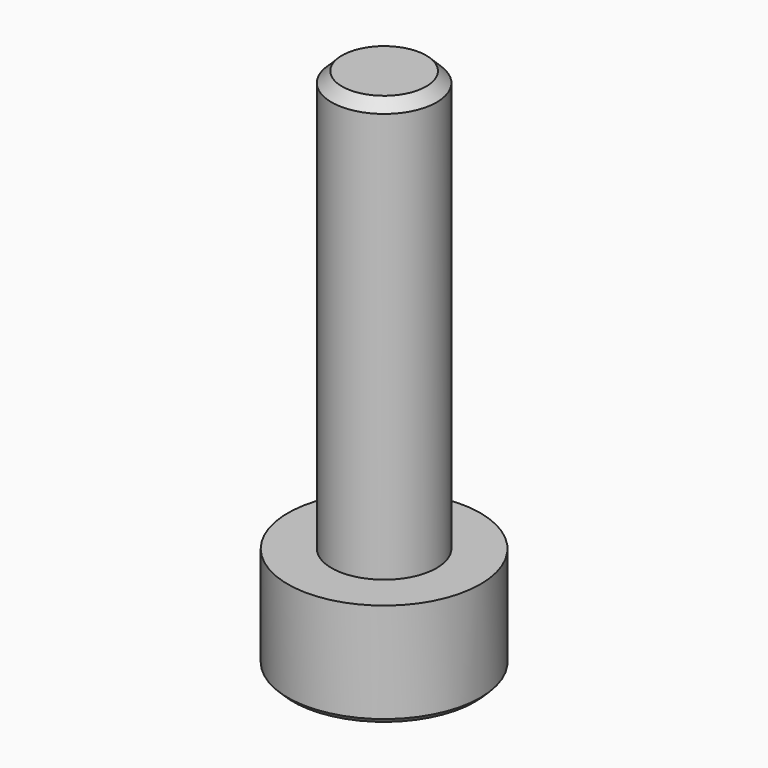
from build123d import *

# Parameters (mm, degrees)
F3_R     = 2.75
F4_DEPTH = 3
F6_DEPTH = 1.5
F7_R     = 1.5
F8_DEPTH = 12
F9_SIZE  = 0.15
F10_SIZE = 0.3


with BuildPart() as f4:
    # F3 (on Top) → F4 (new body)
    with BuildSketch(Plane.XY):
        Circle(F3_R)
    extrude(amount=F4_DEPTH)

    # F5 (on face) → F6 (cut)
    with BuildSketch(Plane(origin=(0, 0, 0), x_dir=(1, 0, 0), z_dir=(0, 0, -1))):
        Polygon((0.7216878365, 1.25), (-0.7216878365, 1.25), (-1.443375673, 0), (-0.7216878365, -1.25), (0.7216878365, -1.25), (1.443375673, 0), align=None)
    extrude(amount=-F6_DEPTH, mode=Mode.SUBTRACT)

    # F7 (on face) → F8 (join)
    with BuildSketch(Plane.XY.offset(3)):
        Circle(F7_R)
    extrude(amount=F8_DEPTH)

    # F9
    f9_edges = [f4.edges().sort_by_distance(p)[0] for p in [
        (-2.75, 0, 0),
        (0, -1.25, 0),
        (1.082532, -0.625, 0),
        (1.082532, 0.625, 0),
        (0, 1.25, 0),
        (-1.082532, -0.625, 0),
        (-1.082532, 0.625, 0),
    ]]
    chamfer(f9_edges, length=F9_SIZE)

    # F10
    f10_edges = [f4.edges().sort_by_distance(p)[0] for p in [
        (-1.5, 0, 15),
    ]]
    chamfer(f10_edges, length=F10_SIZE)


solid = f4.part
